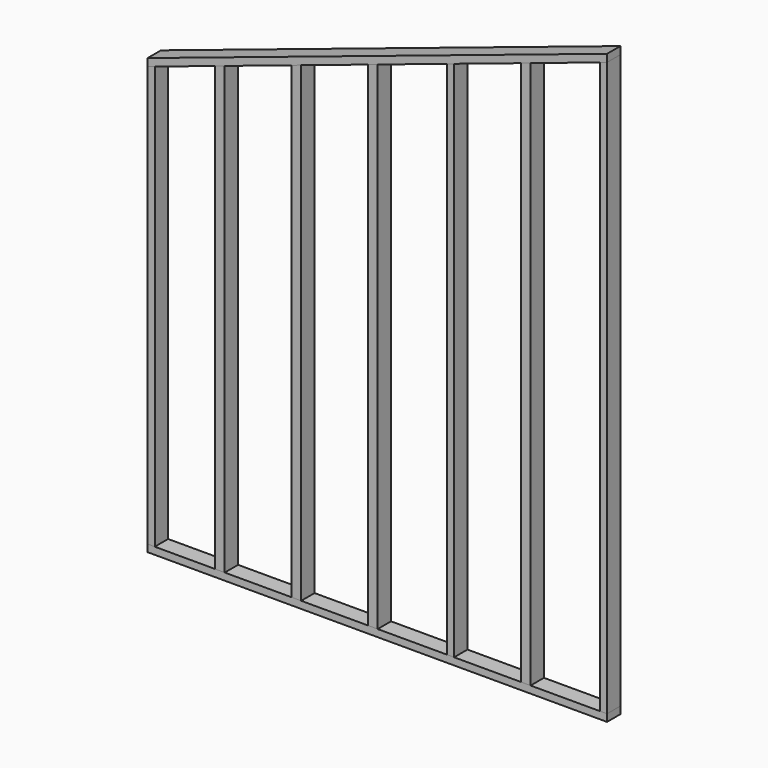
from build123d import *

# Parameters (mm, degrees)
F1_DEPTH = 88.9
F2_DEPTH = 88.9


with BuildPart() as f1:
    # F0 (on Front) → F1 (new body)
    with BuildSketch(Plane.XZ):
        Polygon((1489.55253, -1949.037255), (1489.55253, 1098.962745), (1451.45253, 1086.262745), (1451.45253, -1949.037255), align=None)
        Polygon((-914.437842, 297.632621), (-952.537842, 284.932621), (-952.537842, -1949.037255), (-914.437842, -1949.037255), align=None)
        Polygon((-542.44747, 421.629412), (-593.24747, 404.696078), (-593.24747, -1949.037255), (-542.44747, -1949.037255), align=None)
        Polygon((-136.04747, 557.096078), (-186.84747, 540.162745), (-186.84747, -1949.037255), (-136.04747, -1949.037255), align=None)
        Polygon((270.35253, 692.562745), (219.55253, 675.629412), (219.55253, -1949.037255), (270.35253, -1949.037255), align=None)
        Polygon((676.75253, -1949.037255), (676.75253, 828.029412), (638.65253, 815.329412), (638.65253, -1949.037255), align=None)
        Polygon((1083.15253, -1949.037255), (1083.15253, 963.496078), (1032.35253, 946.562745), (1032.35253, -1949.037255), align=None)
        Polygon((-914.437842, 297.632621), (-952.537842, 284.932621), (-952.537842, -1949.037255), (-914.437842, -1949.037255), align=None)
    extrude(amount=F1_DEPTH)


with BuildPart() as f2:
    # F0 (on Front) → F2 (new body)
    with BuildSketch(Plane.XZ):
        Polygon((1489.55253, 1139.123671), (-952.537842, 325.093548), (-952.537842, 284.932621), (-914.437842, 297.632621), (-593.24747, 404.696078), (-542.44747, 421.629412), (-186.84747, 540.162745), (-136.04747, 557.096078), (219.55253, 675.629412), (270.35253, 692.562745), (638.65253, 815.329412), (676.75253, 828.029412), (1032.35253, 946.562745), (1083.15253, 963.496078), (1451.45253, 1086.262745), (1489.55253, 1098.962745), align=None)
        Polygon((-914.437842, -1949.037255), (-952.537842, -1949.037255), (-952.537842, -1987.137255), (1489.55253, -1987.137255), (1489.55253, -1949.037255), (1451.45253, -1949.037255), (1083.15253, -1949.037255), (1032.35253, -1949.037255), (676.75253, -1949.037255), (638.65253, -1949.037255), (270.35253, -1949.037255), (219.55253, -1949.037255), (-136.04747, -1949.037255), (-186.84747, -1949.037255), (-542.44747, -1949.037255), (-593.24747, -1949.037255), align=None)
    extrude(amount=F2_DEPTH)


solid = Compound([f1.part, f2.part])
